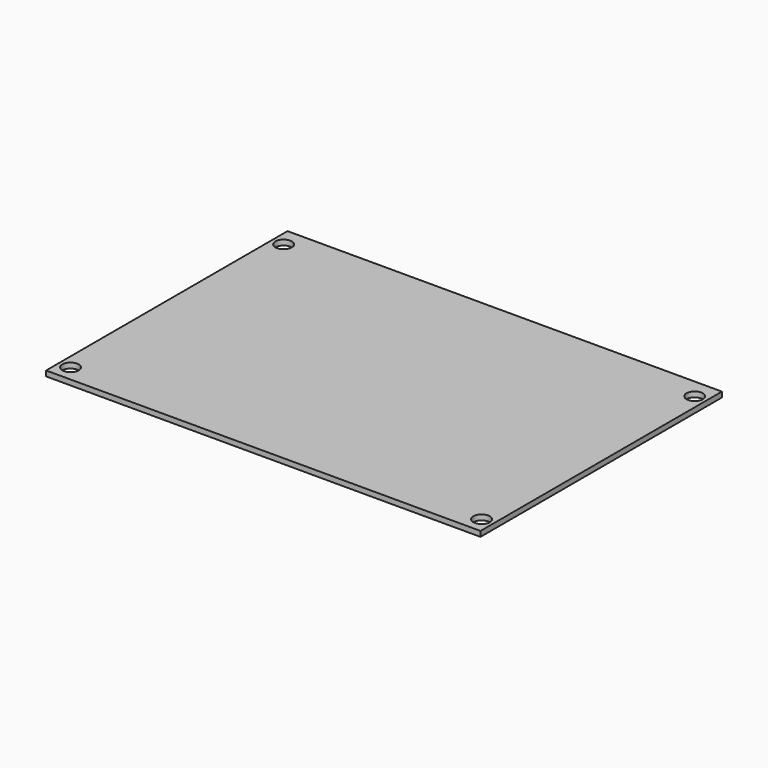
from build123d import *

# Parameters (mm, degrees)
SKETCH_W                = 190
SKETCH_H                = 132
PAD_DEPTH               = 2.3
SKETCH001_R             = 3.575
POCKET_DEPTH            = 465.028955
SKETCH001_MIRRORED_2_R  = 3.575
POCKET_MIRRORED_2_DEPTH = 465.028955
LINEARPATTERN_COUNT     = 2
LINEARPATTERN_PITCH     = 116.5


with BuildPart() as part:
    # Sketch → Pad (new body)
    with BuildSketch(Plane.XY):
        Rectangle(SKETCH_W, SKETCH_H)
    extrude(amount=PAD_DEPTH)

    # Sketch001 (on Face6 of Pad) → Pocket (cut, through all)
    with BuildSketch(Plane.XY.offset(2.3)):
        with Locations((-89.9, 57.5)):
            Circle(SKETCH001_R)
    pocket = extrude(amount=-POCKET_DEPTH, mode=Mode.SUBTRACT)

    # Sketch001 Mirrored 2 → Pocket Mirrored 2 (cut, through all)
    with BuildSketch(Plane(origin=(0, 0, 2.3), x_dir=(-1, 0, 0), z_dir=(0, 0, -1))):
        with Locations((-89.9, 57.5)):
            Circle(SKETCH001_MIRRORED_2_R)
    pocket_mirrored_2 = extrude(amount=POCKET_MIRRORED_2_DEPTH, mode=Mode.SUBTRACT)

    # LinearPattern: Pocket, Pocket Mirrored 2 ×2
    with Locations(*[(0, -i * LINEARPATTERN_PITCH, 0) for i in range(1, LINEARPATTERN_COUNT)]):
        add(pocket, mode=Mode.SUBTRACT)
        add(pocket_mirrored_2, mode=Mode.SUBTRACT)


solid = part.part
